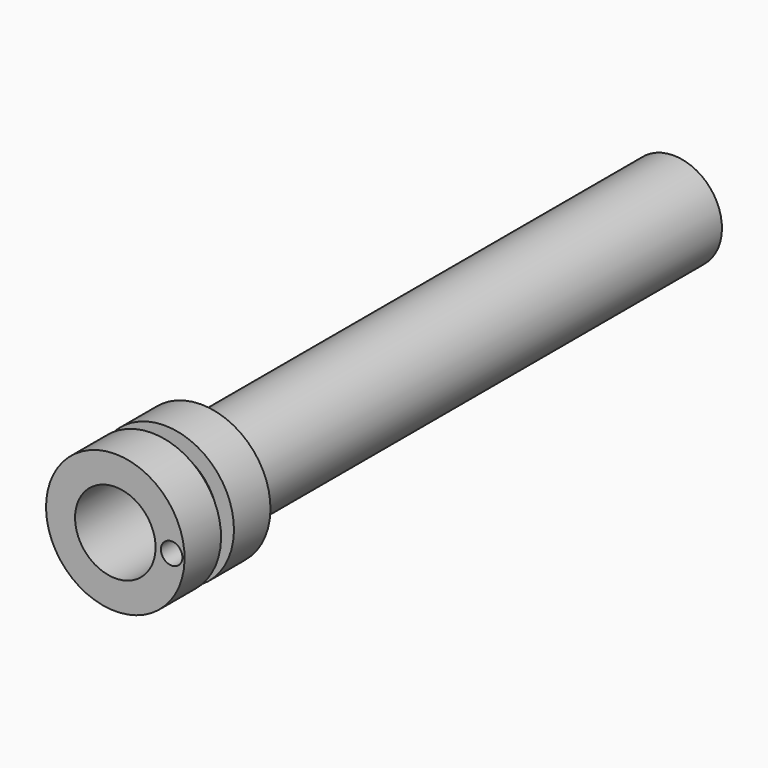
from build123d import *

# Parameters (mm, degrees)
F2_R     = 1
F3_DEPTH = 4


with BuildPart() as f1:
    # F0 (on Right) → F1 (revolve)
    with BuildSketch(Plane.YZ):
        Polygon((0, 3.75), (65, 3.75), (65, 4.5), (10, 4.5), (10, 6.45), (5.75, 6.45), (5.75, 4.95), (4.25, 4.95), (4.25, 6.45), (0, 6.45), align=None)
    revolve(axis=Axis((0, 5.735075, 0), (0, -1, 0)))

    # F2 (on face) → F3 (cut)
    with BuildSketch(Plane.XZ):
        with Locations((5.25, 0)):
            Circle(F2_R)
    extrude(amount=-F3_DEPTH, mode=Mode.SUBTRACT)


solid = f1.part
